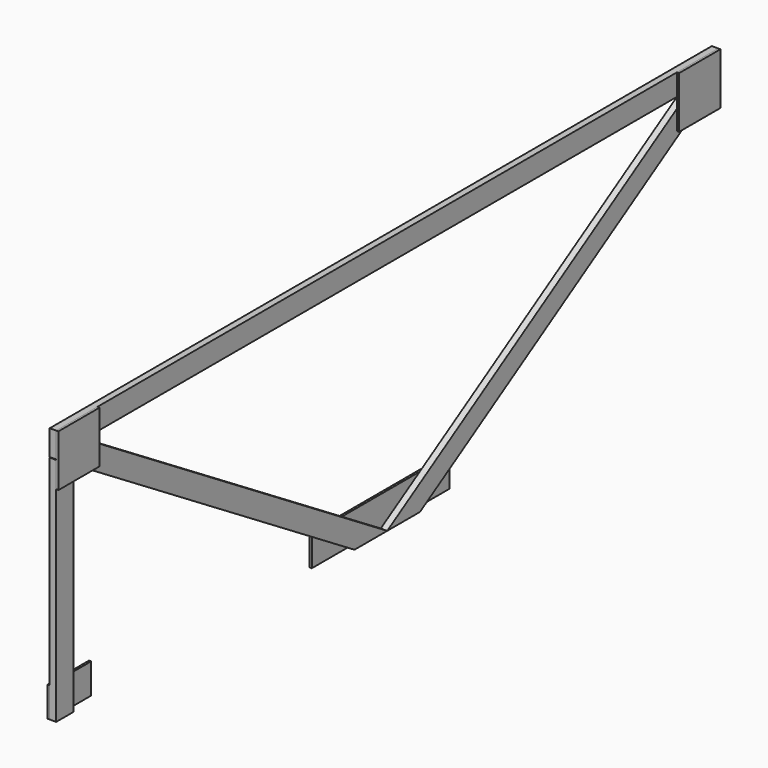
from build123d import *

# Parameters (mm, degrees)
F1_DEPTH = 19.05
F2_DEPTH = 19.05
F3_W     = 152.4
F3_H     = 152.4
F4_DEPTH = 6.35
F5_W     = 152.4
F5_H     = 88.9
F6_DEPTH = 6.35
F8_DEPTH = 19.05


with BuildPart() as f1:
    # F0 (on Right) → F1 (new body)
    with BuildSketch(Plane.YZ):
        Polygon((2335.946218, 692.15), (1219.2, 0), (1339.736415, 0), (2438.4, 680.942534), (2438.4, 755.65), align=None)
        Polygon((102.453782, 692.15), (0, 755.65), (0, 680.942534), (1098.663585, 0), (1219.2, 0), align=None)
    extrude(amount=F1_DEPTH)


with BuildPart() as f2:
    # F0 (on Right) → F2 (new body)
    with BuildSketch(Plane.YZ):
        Polygon((1219.2, 755.65), (0, 755.65), (102.453782, 692.15), (1216.411535, 692.15), (1221.988465, 692.15), (2335.946218, 692.15), (2438.4, 755.65), align=None)
    extrude(amount=F2_DEPTH)


with BuildPart() as f4:
    # F3 (on face) → F4 (new body)
    with BuildSketch(Plane.YZ.offset(19.05)):
        with Locations((2362.2, 679.45)):
            Rectangle(F3_W, F3_H)
        with Locations((76.2, 679.45)):
            Rectangle(F3_W, F3_H)
    extrude(amount=F4_DEPTH)


with BuildPart() as f6:
    # F5 (on face) → F6 (new body)
    with BuildSketch(Plane(origin=(0, 0, 0), x_dir=(0, -1, 0), z_dir=(-1, 0, 0))):
        Polygon((-1473.2, 0), (-1219.2, 0), (-965.2, 0), (-965.2, 88.9), (-1219.2, 88.9), (-1473.2, 88.9), align=None)
        with Locations((-76.2, 44.45)):
            Rectangle(F5_W, F5_H)
    extrude(amount=F6_DEPTH)


with BuildPart() as f8:
    # F7 (on Right) → F8 (new body)
    with BuildSketch(Plane.YZ):
        Polygon((63.5, 641.585764), (0, 679.45), (0, 0), (63.5, 0), align=None)
    extrude(amount=F8_DEPTH)


solid = Compound([f1.part, f2.part, f4.part, f6.part, f8.part])
